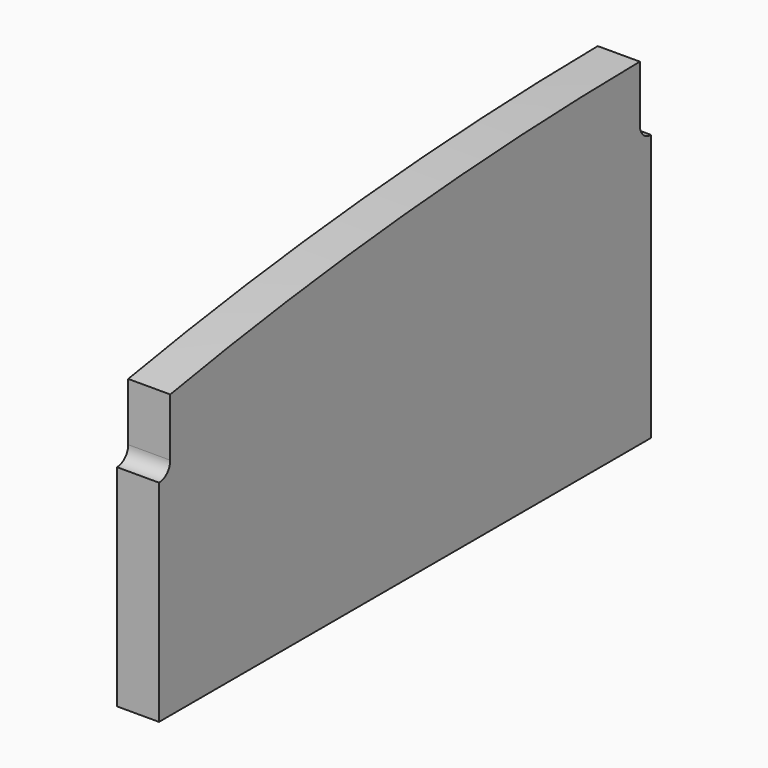
from build123d import *

# Parameters (mm, degrees)
F1_DEPTH = 19.01698


with BuildPart() as f1:
    # F0 (on Right) → F1 (new body)
    with BuildSketch(Plane.YZ):
        with BuildLine():
            Line((-141.684375, -76.2), (136.462135, -76.2))
            Line((136.462135, -76.2), (136.462135, 44.45))
            ThreePointArc((136.462135, 44.45), (131.972007, 46.309872), (130.112135, 50.8))
            Line((130.112135, 50.8), (130.112135, 76.2))
            ThreePointArc((130.112135, 76.2), (-3.119611, 69.38236), (-135.334375, 51.59375))
            Line((-135.334375, 51.59375), (-135.334375, 25.4))
            ThreePointArc((-135.334375, 25.4), (-137.194247, 20.909872), (-141.684375, 19.05))
            Line((-141.684375, 19.05), (-141.684375, -76.2))
        make_face()
    extrude(amount=F1_DEPTH)


solid = f1.part
